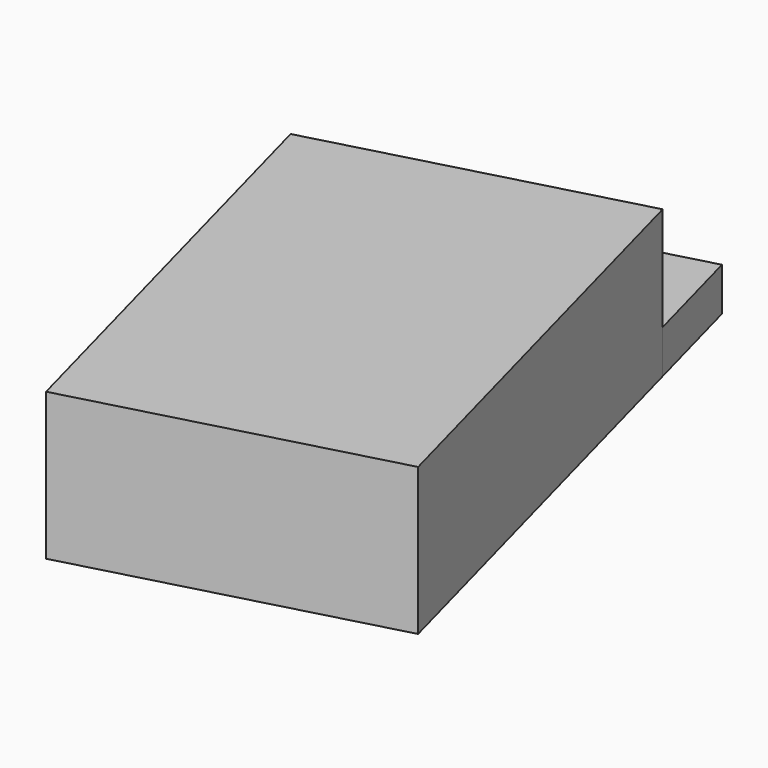
from build123d import *

# Parameters (mm, degrees)
F1_DEPTH = 5.1
F2_DEPTH = 1.5


with BuildPart() as f1:
    # F0 (on Top) → F1 (new body)
    with BuildSketch(Plane.XY):
        Polygon((0, 0), (-4.270514, 15.937776), (-14.895698, 13.090767), (-10.625184, -2.847009), align=None)
    extrude(amount=F1_DEPTH)

    # F0 (on Top) → F2 (join)
    with BuildSketch(Plane.XY):
        Polygon((-4.270514, 15.937776), (-5.30579, 19.801479), (-15.930975, 16.95447), (-14.895698, 13.090767), align=None)
    extrude(amount=F2_DEPTH)


solid = f1.part
